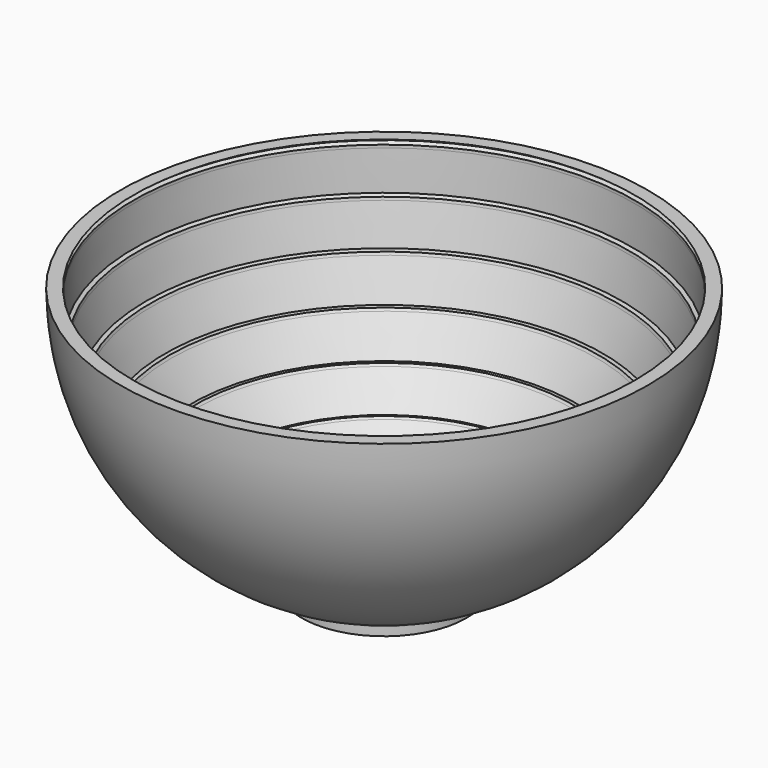
from build123d import *

# Parameters (mm, degrees)
F2_R = 5
F3_T = -10


with BuildPart() as f1:
    # F0 (on Front) → F1 (revolve)
    with BuildSketch(Plane.XZ):
        with BuildLine():
            Line((0, 0), (0, -200))
            ThreePointArc((0, -200), (31.6227766017, -197.4841765813), (62.449979984, -190))
            ThreePointArc((62.449979984, -190), (162.0030802127, -117.2817206627), (200, 0))
            Line((200, 0), (0, 0))
        make_face()
        with BuildLine():
            ThreePointArc((62.449979984, -190), (31.6227766017, -197.4841765813), (0, -200))
            Line((0, -200), (62.449979984, -200))
            Line((62.449979984, -200), (62.449979984, -190))
        make_face()
    revolve(axis=Axis((0, 0, -100), (0, 0, 1)))

    # F2
    f2_edges = [f1.edges().sort_by_distance(p)[0] for p in [
        (-62.44998, 0, -190),
    ]]
    fillet(f2_edges, radius=F2_R)

    # F3
    f3_openings = [f1.faces().sort_by_distance(p)[0] for p in [
        (0, 0, 0),
    ]]
    offset(amount=F3_T, openings=f3_openings)


with BuildPart() as f5:
    # F4 (on face) → F5 (revolve)
    with BuildSketch(Plane.XZ):
        with BuildLine():
            Line((94.7114774724, -167.5309202794), (117.795581754, -149.0778351038))
            ThreePointArc((117.795581754, -149.0778351038), (106.6784742153, -157.2250079952), (95, -164.544826719))
            Line((95, -164.544826719), (94.7114774724, -167.5309202794))
        make_face()
        with BuildLine():
            Line((94.7114774724, -167.5309202794), (95, -164.544826719))
            ThreePointArc((95, -164.544826719), (93.5059086921, -165.3984432807), (92.004147905, -166.2384936417))
            Line((92.004147905, -166.2384936417), (94.7114774724, -167.5309202794))
        make_face()
    revolve(axis=Axis((0, 0, -100), (0, 0, 1)))


with BuildPart() as f5b:
    # F4 (on face) → F5, piece 2 (revolve)
    with BuildSketch(Plane.XZ):
        with BuildLine():
            ThreePointArc((117.795581754, -149.0778351038), (118.6363911057, -148.4095910156), (119.4734096451, -147.736604766))
            Line((119.4734096451, -147.736604766), (117.795581754, -149.0778351038))
        make_face()
    revolve(axis=Axis((0, 0, -100), (0, 0, 1)))


with BuildPart() as f5c:
    # F4 (on face) → F5, piece 3 (revolve)
    with BuildSketch(Plane.XZ):
        with BuildLine():
            Line((122.3640363234, -148.5392736932), (141.8930965783, -126.3580197037))
            ThreePointArc((141.8930965783, -126.3580197037), (132.3596246088, -136.3118841973), (122.1296458404, -145.5484441926))
            Line((122.1296458404, -145.5484441926), (122.3640363234, -148.5392736932))
        make_face()
        with BuildLine():
            Line((122.3640363234, -148.5392736932), (122.1296458404, -145.5484441926))
            ThreePointArc((122.1296458404, -145.5484441926), (120.806482097, -146.6485386335), (119.4734096451, -147.736604766))
            Line((119.4734096451, -147.736604766), (122.3640363234, -148.5392736932))
        make_face()
    revolve(axis=Axis((0, 0, -100), (0, 0, 1)))


with BuildPart() as f5d:
    # F4 (on face) → F5, piece 4 (revolve)
    with BuildSketch(Plane.XZ):
        with BuildLine():
            ThreePointArc((141.8930965783, -126.3580197037), (142.6050927785, -125.553922733), (143.3125322896, -124.7458139127))
            Line((143.3125322896, -124.7458139127), (141.8930965783, -126.3580197037))
        make_face()
    revolve(axis=Axis((0, 0, -100), (0, 0, 1)))


with BuildPart() as f5e:
    # F4 (on face) → F5, piece 5 (revolve)
    with BuildSketch(Plane.XZ):
        with BuildLine():
            Line((146.2986258499, -125.0343364403), (161.6792614643, -99.7988798151))
            ThreePointArc((161.6792614643, -99.7988798151), (154.0190947858, -111.2569927752), (145.5484441926, -122.1296458404))
            Line((145.5484441926, -122.1296458404), (146.2986258499, -125.0343364403))
        make_face()
        with BuildLine():
            Line((146.2986258499, -125.0343364403), (145.5484441926, -122.1296458404))
            ThreePointArc((145.5484441926, -122.1296458404), (144.4364116745, -123.4427923477), (143.3125322896, -124.7458139127))
            Line((143.3125322896, -124.7458139127), (146.2986258499, -125.0343364403))
        make_face()
    revolve(axis=Axis((0, 0, -100), (0, 0, 1)))


with BuildPart() as f5f:
    # F4 (on face) → F5, piece 6 (revolve)
    with BuildSketch(Plane.XZ):
        with BuildLine():
            ThreePointArc((161.6792614643, -99.7988798151), (162.2408108688, -98.8833620415), (162.7971761601, -97.9646846281))
            Line((162.7971761601, -97.9646846281), (161.6792614643, -99.7988798151))
        make_face()
    revolve(axis=Axis((0, 0, -100), (0, 0, 1)))


with BuildPart() as f5g:
    # F4 (on face) → F5, piece 7 (revolve)
    with BuildSketch(Plane.XZ):
        with BuildLine():
            Line((165.7880056607, -97.7302941451), (176.5528838044, -70.207401464))
            ThreePointArc((176.5528838044, -70.207401464), (170.998772705, -82.8216139264), (164.544826719, -95))
            Line((164.544826719, -95), (165.7880056607, -97.7302941451))
        make_face()
        with BuildLine():
            Line((165.7880056607, -97.7302941451), (164.544826719, -95))
            ThreePointArc((164.544826719, -95), (163.6777139716, -96.4862992814), (162.7971761601, -97.9646846281))
            Line((162.7971761601, -97.9646846281), (165.7880056607, -97.7302941451))
        make_face()
    revolve(axis=Axis((0, 0, -100), (0, 0, 1)))


with BuildPart() as f5h:
    # F4 (on face) → F5, piece 8 (revolve)
    with BuildSketch(Plane.XZ):
        with BuildLine():
            ThreePointArc((176.5528838044, -70.207401464), (176.9469240187, -69.2082804319), (177.3353102124, -68.2069479736))
            Line((177.3353102124, -68.2069479736), (176.5528838044, -70.207401464))
        make_face()
    revolve(axis=Axis((0, 0, -100), (0, 0, 1)))


with BuildPart() as f5i:
    # F4 (on face) → F5, piece 9 (revolve)
    with BuildSketch(Plane.XZ):
        with BuildLine():
            Line((180.2400008123, -67.4567663163), (186.0620361102, -38.4827067462))
            ThreePointArc((186.0620361102, -38.4827067462), (182.7827394452, -51.8697422482), (178.5415979493, -64.9838272319))
            Line((178.5415979493, -64.9838272319), (180.2400008123, -67.4567663163))
        make_face()
        with BuildLine():
            Line((180.2400008123, -67.4567663163), (178.5415979493, -64.9838272319))
            ThreePointArc((178.5415979493, -64.9838272319), (177.9457517546, -66.5981188359), (177.3353102124, -68.2069479736))
            Line((177.3353102124, -68.2069479736), (180.2400008123, -67.4567663163))
        make_face()
    revolve(axis=Axis((0, 0, -100), (0, 0, 1)))


with BuildPart() as f5j:
    # F4 (on face) → F5, piece 10 (revolve)
    with BuildSketch(Plane.XZ):
        with BuildLine():
            ThreePointArc((186.0620361102, -38.4827067462), (186.2765944217, -37.4303402423), (186.4852005998, -36.3767777193))
            Line((186.4852005998, -36.3767777193), (186.0620361102, -38.4827067462))
        make_face()
    revolve(axis=Axis((0, 0, -100), (0, 0, 1)))


with BuildPart() as f5k:
    # F4 (on face) → F5, piece 11 (revolve)
    with BuildSketch(Plane.XZ):
        with BuildLine():
            Line((189.215494745, -35.1335987777), (189.9177876008, -5.588734457))
            ThreePointArc((189.9177876008, -5.588734457), (189.0129451399, -19.3418346991), (187.1134730723, -32.9931537567))
            Line((187.1134730723, -32.9931537567), (189.215494745, -35.1335987777))
        make_face()
        with BuildLine():
            Line((189.215494745, -35.1335987777), (187.1134730723, -32.9931537567))
            ThreePointArc((187.1134730723, -32.9931537567), (186.8069979154, -34.6863882499), (186.4852005998, -36.3767777193))
            Line((186.4852005998, -36.3767777193), (189.215494745, -35.1335987777))
        make_face()
    revolve(axis=Axis((0, 0, -100), (0, 0, 1)))


with BuildPart() as f5l:
    # F4 (on face) → F5, piece 12 (revolve)
    with BuildSketch(Plane.XZ):
        with BuildLine():
            ThreePointArc((189.9177876008, -5.588734457), (189.9463447637, -4.5150981052), (189.9688325331, -3.4413174816))
            Line((189.9688325331, -3.4413174816), (189.9177876008, -5.588734457))
        make_face()
    revolve(axis=Axis((0, 0, -100), (0, 0, 1)))


with BuildPart() as f5m:
    # F4 (on face) → F5, piece 13 (revolve)
    with BuildSketch(Plane.XZ):
        with BuildLine():
            Line((192.4417716175, -1.7429146187), (190, 0))
            ThreePointArc((190, 0), (189.9922079735, -1.7207293091), (189.9688325331, -3.4413174816))
            Line((189.9688325331, -3.4413174816), (192.4417716175, -1.7429146187))
        make_face()
    revolve(axis=Axis((0, 0, -100), (0, 0, 1)))


with BuildPart() as f1_1:
    add(f1.part)

    # F6: cut F5m, F5k, F5i, F5g, F5e, F5c, F5
    add(f5m.part, mode=Mode.SUBTRACT)
    add(f5k.part, mode=Mode.SUBTRACT)
    add(f5i.part, mode=Mode.SUBTRACT)
    add(f5g.part, mode=Mode.SUBTRACT)
    add(f5e.part, mode=Mode.SUBTRACT)
    add(f5c.part, mode=Mode.SUBTRACT)
    add(f5.part, mode=Mode.SUBTRACT)


solid = Compound([f5b.part, f5d.part, f5f.part, f5h.part, f5j.part, f5l.part, f1_1.part])
